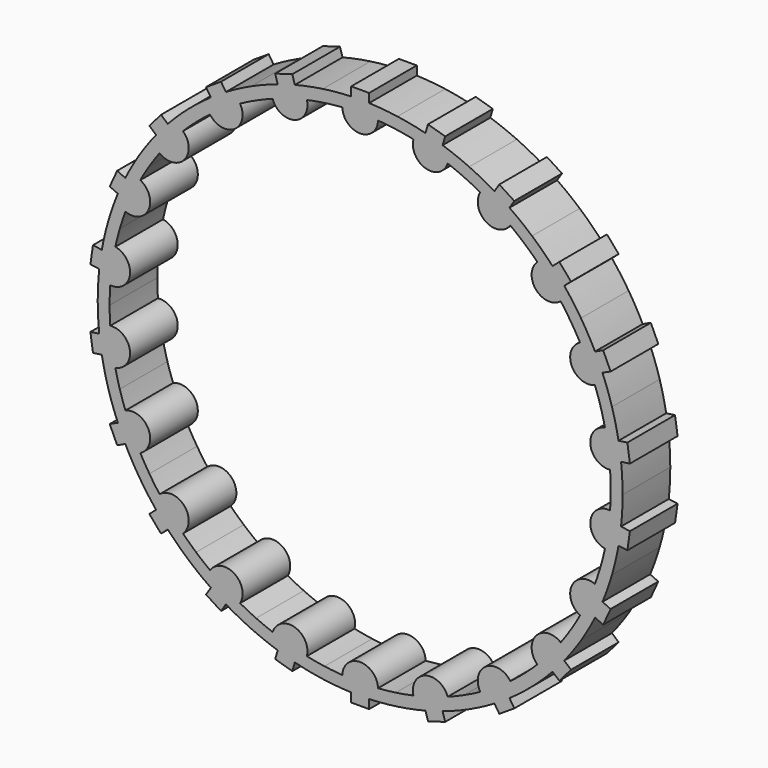
from build123d import *

# Parameters (mm, degrees)
F1_DEPTH = 20


with BuildPart() as f1:
    # F0 (on Front) → F1 (new body)
    with BuildSketch(Plane.XZ):
        with BuildLine():
            ThreePointArc((21.921121, 85.30488), (17.253343, 86.370019), (12.534583, 87.179942))
            ThreePointArc((12.534583, 87.179942), (7.778785, 87.732255), (3, 88.025326))
            Line((3, 88.025326), (3, 91.025326))
            Line((3, 91.025326), (-3, 91.025326))
            Line((-3, 91.025326), (-3, 88.025326))
            ThreePointArc((-3, 88.025326), (-7.778785, 87.732255), (-12.534583, 87.179942))
            ThreePointArc((-12.534583, 87.179942), (-17.253343, 86.370019), (-21.921121, 85.30488))
            Line((-21.921121, 85.30488), (-22.766319, 88.183359))
            Line((-22.766319, 88.183359), (-28.523277, 86.492963))
            Line((-28.523277, 86.492963), (-27.678079, 83.614484))
            ThreePointArc((-27.678079, 83.614484), (-32.180722, 81.986945), (-36.588273, 80.117142))
            ThreePointArc((-36.588273, 80.117142), (-40.887708, 78.010598), (-45.066324, 75.673539))
            Line((-45.066324, 75.673539), (-46.688246, 78.1973))
            Line((-46.688246, 78.1973), (-51.735767, 74.953455))
            Line((-51.735767, 74.953455), (-50.113845, 72.429694))
            ThreePointArc((-50.113845, 72.429694), (-53.975568, 69.599541), (-57.677798, 66.563727))
            ThreePointArc((-57.677798, 66.563727), (-61.209594, 63.331222), (-64.560521, 59.911579))
            Line((-64.560521, 59.911579), (-66.827769, 61.876161))
            Line((-66.827769, 61.876161), (-70.756934, 57.341663))
            Line((-70.756934, 57.341663), (-68.489685, 55.377081))
            ThreePointArc((-68.489685, 55.377081), (-71.397635, 51.573596), (-74.094611, 47.617715))
            ThreePointArc((-74.094611, 47.617715), (-76.572642, 43.521127), (-78.824408, 39.295938))
            Line((-78.824408, 39.295938), (-81.553304, 40.542183))
            Line((-81.553304, 40.542183), (-84.045794, 35.084391))
            Line((-84.045794, 35.084391), (-81.316898, 33.838146))
            ThreePointArc((-81.316898, 33.838146), (-83.03549, 29.369465), (-84.508719, 24.813999))
            ThreePointArc((-84.508719, 24.813999), (-85.732231, 20.185209), (-86.702411, 15.496774))
            Line((-86.702411, 15.496774), (-89.671875, 15.923719))
            Line((-89.671875, 15.923719), (-90.525764, 9.98479))
            Line((-90.525764, 9.98479), (-87.5563, 9.557846))
            ThreePointArc((-87.5563, 9.557846), (-87.946304, 4.785994), (-88.076433, 0))
            ThreePointArc((-88.076433, 0), (-87.946304, -4.785994), (-87.5563, -9.557846))
            Line((-87.5563, -9.557846), (-90.525764, -9.98479))
            Line((-90.525764, -9.98479), (-89.671875, -15.923719))
            Line((-89.671875, -15.923719), (-86.702411, -15.496774))
            ThreePointArc((-86.702411, -15.496774), (-85.732231, -20.185209), (-84.508719, -24.813999))
            ThreePointArc((-84.508719, -24.813999), (-83.03549, -29.369465), (-81.316898, -33.838146))
            Line((-81.316898, -33.838146), (-84.045794, -35.084391))
            Line((-84.045794, -35.084391), (-81.553304, -40.542183))
            Line((-81.553304, -40.542183), (-78.824408, -39.295938))
            ThreePointArc((-78.824408, -39.295938), (-76.572642, -43.521127), (-74.094611, -47.617715))
            ThreePointArc((-74.094611, -47.617715), (-71.397635, -51.573596), (-68.489685, -55.377081))
            Line((-68.489685, -55.377081), (-70.756934, -57.341663))
            Line((-70.756934, -57.341663), (-66.827769, -61.876161))
            Line((-66.827769, -61.876161), (-64.560521, -59.911579))
            ThreePointArc((-64.560521, -59.911579), (-61.209594, -63.331222), (-57.677798, -66.563727))
            ThreePointArc((-57.677798, -66.563727), (-53.975568, -69.599541), (-50.113845, -72.429694))
            Line((-50.113845, -72.429694), (-51.735767, -74.953455))
            Line((-51.735767, -74.953455), (-46.688246, -78.1973))
            Line((-46.688246, -78.1973), (-45.066324, -75.673539))
            ThreePointArc((-45.066324, -75.673539), (-40.887708, -78.010598), (-36.588273, -80.117142))
            ThreePointArc((-36.588273, -80.117142), (-32.180722, -81.986945), (-27.678079, -83.614484))
            Line((-27.678079, -83.614484), (-28.523277, -86.492963))
            Line((-28.523277, -86.492963), (-22.766319, -88.183359))
            Line((-22.766319, -88.183359), (-21.921121, -85.30488))
            ThreePointArc((-21.921121, -85.30488), (-17.253343, -86.370019), (-12.534583, -87.179942))
            ThreePointArc((-12.534583, -87.179942), (-7.778785, -87.732255), (-3, -88.025326))
            Line((-3, -88.025326), (-3, -91.025326))
            Line((-3, -91.025326), (3, -91.025326))
            Line((3, -91.025326), (3, -88.025326))
            ThreePointArc((3, -88.025326), (7.778785, -87.732255), (12.534583, -87.179942))
            ThreePointArc((12.534583, -87.179942), (17.253343, -86.370019), (21.921121, -85.30488))
            Line((21.921121, -85.30488), (22.766319, -88.183359))
            Line((22.766319, -88.183359), (28.523277, -86.492963))
            Line((28.523277, -86.492963), (27.678079, -83.614484))
            ThreePointArc((27.678079, -83.614484), (32.180722, -81.986945), (36.588273, -80.117142))
            ThreePointArc((36.588273, -80.117142), (40.887708, -78.010598), (45.066324, -75.673539))
            Line((45.066324, -75.673539), (46.688246, -78.1973))
            Line((46.688246, -78.1973), (51.735767, -74.953455))
            Line((51.735767, -74.953455), (50.113845, -72.429694))
            ThreePointArc((50.113845, -72.429694), (53.975568, -69.599541), (57.677798, -66.563727))
            ThreePointArc((57.677798, -66.563727), (61.209594, -63.331222), (64.560521, -59.911579))
            Line((64.560521, -59.911579), (66.827769, -61.876161))
            Line((66.827769, -61.876161), (70.756934, -57.341663))
            Line((70.756934, -57.341663), (68.489685, -55.377081))
            ThreePointArc((68.489685, -55.377081), (71.397635, -51.573596), (74.094611, -47.617715))
            ThreePointArc((74.094611, -47.617715), (76.572642, -43.521127), (78.824408, -39.295938))
            Line((78.824408, -39.295938), (81.553304, -40.542183))
            Line((81.553304, -40.542183), (84.045794, -35.084391))
            Line((84.045794, -35.084391), (81.316898, -33.838146))
            ThreePointArc((81.316898, -33.838146), (83.03549, -29.369465), (84.508719, -24.813999))
            ThreePointArc((84.508719, -24.813999), (85.732231, -20.185209), (86.702411, -15.496774))
            Line((86.702411, -15.496774), (89.671875, -15.923719))
            Line((89.671875, -15.923719), (90.525764, -9.98479))
            Line((90.525764, -9.98479), (87.5563, -9.557846))
            ThreePointArc((87.5563, -9.557846), (87.946304, -4.785994), (88.076433, 0))
            ThreePointArc((88.076433, 0), (87.946304, 4.785994), (87.5563, 9.557846))
            Line((87.5563, 9.557846), (90.525764, 9.98479))
            Line((90.525764, 9.98479), (89.671875, 15.923719))
            Line((89.671875, 15.923719), (86.702411, 15.496774))
            ThreePointArc((86.702411, 15.496774), (85.732231, 20.185209), (84.508719, 24.813999))
            ThreePointArc((84.508719, 24.813999), (83.03549, 29.369465), (81.316898, 33.838146))
            Line((81.316898, 33.838146), (84.045794, 35.084391))
            Line((84.045794, 35.084391), (81.553304, 40.542183))
            Line((81.553304, 40.542183), (78.824408, 39.295938))
            ThreePointArc((78.824408, 39.295938), (76.572642, 43.521127), (74.094611, 47.617715))
            ThreePointArc((74.094611, 47.617715), (71.397635, 51.573596), (68.489685, 55.377081))
            Line((68.489685, 55.377081), (70.756934, 57.341663))
            Line((70.756934, 57.341663), (66.827769, 61.876161))
            Line((66.827769, 61.876161), (64.560521, 59.911579))
            ThreePointArc((64.560521, 59.911579), (61.209594, 63.331222), (57.677798, 66.563727))
            ThreePointArc((57.677798, 66.563727), (53.975568, 69.599541), (50.113845, 72.429694))
            Line((50.113845, 72.429694), (51.735767, 74.953455))
            Line((51.735767, 74.953455), (46.688246, 78.1973))
            Line((46.688246, 78.1973), (45.066324, 75.673539))
            ThreePointArc((45.066324, 75.673539), (40.887708, 78.010598), (36.588273, 80.117142))
            ThreePointArc((36.588273, 80.117142), (32.180722, 81.986945), (27.678079, 83.614484))
            Line((27.678079, 83.614484), (28.523277, 86.492963))
            Line((28.523277, 86.492963), (22.766319, 88.183359))
            Line((22.766319, 88.183359), (21.921121, 85.30488))
        make_face()
        with BuildLine():
            ThreePointArc((5.996179, 83.862342), (8.986481, 83.594795), (11.965324, 83.220656))
            ThreePointArc((11.965324, 83.220656), (14.92891, 82.740403), (17.87346, 82.154647))
            ThreePointArc((17.87346, 82.154647), (21.996673, 74.913789), (29.380044, 78.776009))
            ThreePointArc((29.380044, 78.776009), (32.173841, 77.676834), (34.926613, 76.478614))
            ThreePointArc((34.926613, 76.478614), (37.63485, 75.182875), (40.295098, 73.791271))
            ThreePointArc((40.295098, 73.791271), (42.211307, 65.682075), (50.383712, 67.307712))
            ThreePointArc((50.383712, 67.307712), (52.754667, 65.465958), (55.058355, 63.540729))
            ThreePointArc((55.058355, 63.540729), (57.291837, 61.534478), (59.452267, 59.449765))
            ThreePointArc((59.452267, 59.449765), (59.006231, 51.12919), (67.305592, 50.386545))
            ThreePointArc((67.305592, 50.386545), (69.061624, 47.95142), (70.729596, 45.455152))
            ThreePointArc((70.729596, 45.455152), (72.307381, 42.900923), (73.792967, 40.291992))
            ThreePointArc((73.792967, 40.291992), (71.020822, 32.434122), (78.774773, 29.38336))
            ThreePointArc((78.774773, 29.38336), (79.773619, 26.552142), (80.670747, 23.687068))
            ThreePointArc((80.670747, 23.687068), (81.465011, 20.791791), (82.155399, 17.870002))
            ThreePointArc((82.155399, 17.870002), (77.281728, 11.111435), (83.86209, 5.999709))
            ThreePointArc((83.86209, 5.999709), (84.02283, 3.001768), (84.076433, 0))
            ThreePointArc((84.076433, 0), (84.02283, -3.001768), (83.86209, -5.999709))
            ThreePointArc((83.86209, -5.999709), (77.281728, -11.111435), (82.155399, -17.870002))
            ThreePointArc((82.155399, -17.870002), (81.465011, -20.791791), (80.670747, -23.687068))
            ThreePointArc((80.670747, -23.687068), (79.773619, -26.552142), (78.774773, -29.38336))
            ThreePointArc((78.774773, -29.38336), (71.020822, -32.434122), (73.792967, -40.291992))
            ThreePointArc((73.792967, -40.291992), (72.307381, -42.900923), (70.729596, -45.455152))
            ThreePointArc((70.729596, -45.455152), (69.061624, -47.95142), (67.305592, -50.386545))
            ThreePointArc((67.305592, -50.386545), (59.006231, -51.12919), (59.452267, -59.449765))
            ThreePointArc((59.452267, -59.449765), (57.291837, -61.534478), (55.058355, -63.540729))
            ThreePointArc((55.058355, -63.540729), (52.754667, -65.465958), (50.383712, -67.307712))
            ThreePointArc((50.383712, -67.307712), (42.211307, -65.682075), (40.295098, -73.791271))
            ThreePointArc((40.295098, -73.791271), (37.63485, -75.182875), (34.926613, -76.478614))
            ThreePointArc((34.926613, -76.478614), (32.173841, -77.676834), (29.380044, -78.776009))
            ThreePointArc((29.380044, -78.776009), (21.996673, -74.913789), (17.87346, -82.154647))
            ThreePointArc((17.87346, -82.154647), (14.92891, -82.740403), (11.965324, -83.220656))
            ThreePointArc((11.965324, -83.220656), (8.986481, -83.594795), (5.996179, -83.862342))
            ThreePointArc((5.996179, -83.862342), (0, -78.076433), (-5.996179, -83.862342))
            ThreePointArc((-5.996179, -83.862342), (-8.986481, -83.594795), (-11.965324, -83.220656))
            ThreePointArc((-11.965324, -83.220656), (-14.92891, -82.740403), (-17.87346, -82.154647))
            ThreePointArc((-17.87346, -82.154647), (-21.996673, -74.913789), (-29.380044, -78.776009))
            ThreePointArc((-29.380044, -78.776009), (-32.173841, -77.676834), (-34.926613, -76.478614))
            ThreePointArc((-34.926613, -76.478614), (-37.63485, -75.182875), (-40.295098, -73.791271))
            ThreePointArc((-40.295098, -73.791271), (-42.211307, -65.682075), (-50.383712, -67.307712))
            ThreePointArc((-50.383712, -67.307712), (-52.754667, -65.465958), (-55.058355, -63.540729))
            ThreePointArc((-55.058355, -63.540729), (-57.291837, -61.534478), (-59.452267, -59.449765))
            ThreePointArc((-59.452267, -59.449765), (-59.006231, -51.12919), (-67.305592, -50.386545))
            ThreePointArc((-67.305592, -50.386545), (-69.061624, -47.95142), (-70.729596, -45.455152))
            ThreePointArc((-70.729596, -45.455152), (-72.307381, -42.900923), (-73.792967, -40.291992))
            ThreePointArc((-73.792967, -40.291992), (-71.020822, -32.434122), (-78.774773, -29.38336))
            ThreePointArc((-78.774773, -29.38336), (-79.773619, -26.552142), (-80.670747, -23.687068))
            ThreePointArc((-80.670747, -23.687068), (-81.465011, -20.791791), (-82.155399, -17.870002))
            ThreePointArc((-82.155399, -17.870002), (-77.281728, -11.111435), (-83.86209, -5.999709))
            ThreePointArc((-83.86209, -5.999709), (-84.02283, -3.001768), (-84.076433, 0))
            ThreePointArc((-84.076433, 0), (-84.02283, 3.001768), (-83.86209, 5.999709))
            ThreePointArc((-83.86209, 5.999709), (-77.281728, 11.111435), (-82.155399, 17.870002))
            ThreePointArc((-82.155399, 17.870002), (-81.465011, 20.791791), (-80.670747, 23.687068))
            ThreePointArc((-80.670747, 23.687068), (-79.773619, 26.552142), (-78.774773, 29.38336))
            ThreePointArc((-78.774773, 29.38336), (-71.020822, 32.434122), (-73.792967, 40.291992))
            ThreePointArc((-73.792967, 40.291992), (-72.307381, 42.900923), (-70.729596, 45.455152))
            ThreePointArc((-70.729596, 45.455152), (-69.061624, 47.95142), (-67.305592, 50.386545))
            ThreePointArc((-67.305592, 50.386545), (-59.006231, 51.12919), (-59.452267, 59.449765))
            ThreePointArc((-59.452267, 59.449765), (-57.291837, 61.534478), (-55.058355, 63.540729))
            ThreePointArc((-55.058355, 63.540729), (-52.754667, 65.465958), (-50.383712, 67.307712))
            ThreePointArc((-50.383712, 67.307712), (-42.211307, 65.682075), (-40.295098, 73.791271))
            ThreePointArc((-40.295098, 73.791271), (-37.63485, 75.182875), (-34.926613, 76.478614))
            ThreePointArc((-34.926613, 76.478614), (-32.173841, 77.676834), (-29.380044, 78.776009))
            ThreePointArc((-29.380044, 78.776009), (-21.996673, 74.913789), (-17.87346, 82.154647))
            ThreePointArc((-17.87346, 82.154647), (-14.92891, 82.740403), (-11.965324, 83.220656))
            ThreePointArc((-11.965324, 83.220656), (-8.986481, 83.594795), (-5.996179, 83.862342))
            ThreePointArc((-5.996179, 83.862342), (0, 78.076433), (5.996179, 83.862342))
        make_face(mode=Mode.SUBTRACT)
    extrude(amount=F1_DEPTH)


solid = f1.part
